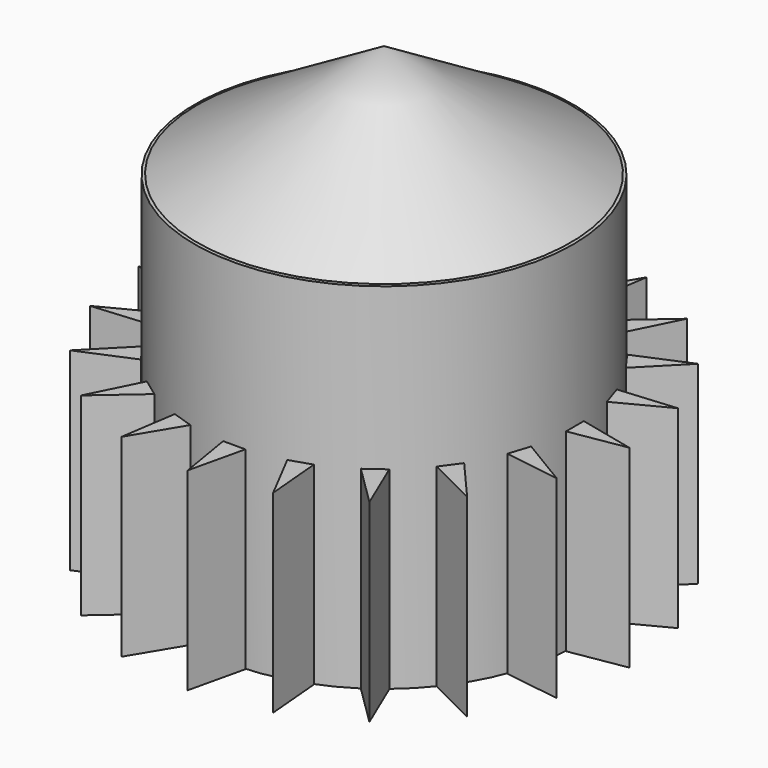
from build123d import *

# Parameters (mm, degrees)
F0_R     = 30.808484
F1_DEPTH = 57.658
F5_DEPTH = 31.496
F6_COUNT = 20


with BuildPart() as f1:
    # F0 (on Top) → F1 (new body)
    with BuildSketch(Plane.XY):
        Circle(F0_R)
    extrude(amount=F1_DEPTH)


with BuildPart() as f3:
    # F2 (on Front) → F3 (revolve)
    with BuildSketch(Plane.XZ):
        Polygon((0, 57.760261), (0, 76.037392), (-30.365102, 57.760261), align=None)
    revolve(axis=Axis((0, 0, 66.898827), (0, 0, 1)))


with BuildPart() as f5:
    # F4 (on Top) → F5 (new body)
    with BuildSketch(Plane.XY):
        Polygon((2.103254, -30.82082), (-1.515446, -30.82082), (0, -39.916471), align=None)
    extrude(amount=F5_DEPTH)


with BuildPart() as f6_1:
    # F6: instance of F5
    add(f5.part.rotate(Axis((0, 0, 0), (0, 0, -1)), 1 * 360 / F6_COUNT))


with BuildPart() as f6_2:
    # F6: instance of F5
    add(f5.part.rotate(Axis((0, 0, 0), (0, 0, -1)), 2 * 360 / F6_COUNT))


with BuildPart() as f6_3:
    # F6: instance of F5
    add(f5.part.rotate(Axis((0, 0, 0), (0, 0, -1)), 3 * 360 / F6_COUNT))


with BuildPart() as f6_4:
    # F6: instance of F5
    add(f5.part.rotate(Axis((0, 0, 0), (0, 0, -1)), 4 * 360 / F6_COUNT))


with BuildPart() as f6_5:
    # F6: instance of F5
    add(f5.part.rotate(Axis((0, 0, 0), (0, 0, -1)), 5 * 360 / F6_COUNT))


with BuildPart() as f6_6:
    # F6: instance of F5
    add(f5.part.rotate(Axis((0, 0, 0), (0, 0, -1)), 6 * 360 / F6_COUNT))


with BuildPart() as f6_7:
    # F6: instance of F5
    add(f5.part.rotate(Axis((0, 0, 0), (0, 0, -1)), 7 * 360 / F6_COUNT))


with BuildPart() as f6_8:
    # F6: instance of F5
    add(f5.part.rotate(Axis((0, 0, 0), (0, 0, -1)), 8 * 360 / F6_COUNT))


with BuildPart() as f6_9:
    # F6: instance of F5
    add(f5.part.rotate(Axis((0, 0, 0), (0, 0, -1)), 9 * 360 / F6_COUNT))


with BuildPart() as f6_10:
    # F6: instance of F5
    add(f5.part.rotate(Axis((0, 0, 0), (0, 0, -1)), 10 * 360 / F6_COUNT))


with BuildPart() as f6_11:
    # F6: instance of F5
    add(f5.part.rotate(Axis((0, 0, 0), (0, 0, -1)), 11 * 360 / F6_COUNT))


with BuildPart() as f6_12:
    # F6: instance of F5
    add(f5.part.rotate(Axis((0, 0, 0), (0, 0, -1)), 12 * 360 / F6_COUNT))


with BuildPart() as f6_13:
    # F6: instance of F5
    add(f5.part.rotate(Axis((0, 0, 0), (0, 0, -1)), 13 * 360 / F6_COUNT))


with BuildPart() as f6_14:
    # F6: instance of F5
    add(f5.part.rotate(Axis((0, 0, 0), (0, 0, -1)), 14 * 360 / F6_COUNT))


with BuildPart() as f6_15:
    # F6: instance of F5
    add(f5.part.rotate(Axis((0, 0, 0), (0, 0, -1)), 15 * 360 / F6_COUNT))


with BuildPart() as f6_16:
    # F6: instance of F5
    add(f5.part.rotate(Axis((0, 0, 0), (0, 0, -1)), 16 * 360 / F6_COUNT))


with BuildPart() as f6_17:
    # F6: instance of F5
    add(f5.part.rotate(Axis((0, 0, 0), (0, 0, -1)), 17 * 360 / F6_COUNT))


with BuildPart() as f6_18:
    # F6: instance of F5
    add(f5.part.rotate(Axis((0, 0, 0), (0, 0, -1)), 18 * 360 / F6_COUNT))


with BuildPart() as f6_19:
    # F6: instance of F5
    add(f5.part.rotate(Axis((0, 0, 0), (0, 0, -1)), 19 * 360 / F6_COUNT))


solid = Compound([f1.part, f3.part, f5.part, f6_1.part, f6_2.part, f6_3.part, f6_4.part, f6_5.part, f6_6.part, f6_7.part, f6_8.part, f6_9.part, f6_10.part, f6_11.part, f6_12.part, f6_13.part, f6_14.part, f6_15.part, f6_16.part, f6_17.part, f6_18.part, f6_19.part])
